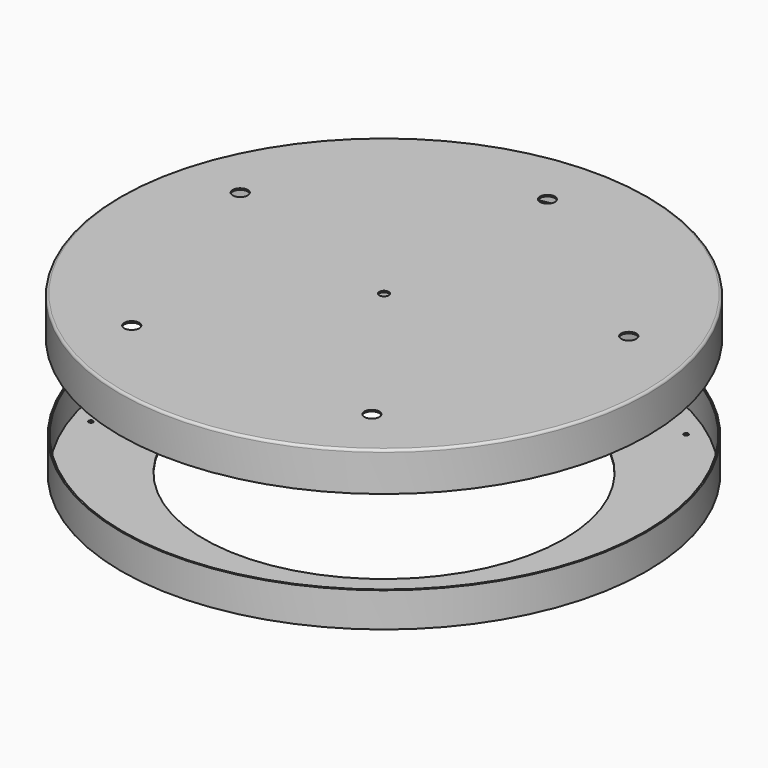
from build123d import *

# Parameters (mm, degrees)
F0_R      = 279.4
F1_DEPTH  = 1.5875
F2_R      = 279.4
F2_R_2    = 277.8125
F3_DEPTH  = 39.6875
F4_R      = 7.9375
F4_R_2    = 5.08
F5_DEPTH  = 1.5875
F6_R      = 2.54
F9_R      = 190.5
F9_R_2    = 2.38125
F10_DEPTH = 3.175
F12_R     = 2.38125
F13_DEPTH = 279.401
F14_R     = 2.38125
F15_DEPTH = 279.401


with BuildPart() as f1:
    # F0 (on Top) → F1 (new body)
    with BuildSketch(Plane.XY):
        Circle(F0_R)
    extrude(amount=F1_DEPTH)

    # F2 (on face) → F3 (join)
    with BuildSketch(Plane(origin=(0, 0, 0), x_dir=(1, 0, 0), z_dir=(0, 0, -1))):
        Circle(F2_R)
        Circle(F2_R_2, mode=Mode.SUBTRACT)
    extrude(amount=F3_DEPTH)

    # F4 (on face) → F5 (cut, through all)
    with BuildSketch(Plane.XY.offset(1.5875)):
        with Locations((0, 216.065305)):
            Circle(F4_R)
        with Locations((-205.490317, 66.767851)):
            Circle(F4_R)
        with Locations((-127, -174.800504)):
            Circle(F4_R)
        with Locations((127, -174.800504)):
            Circle(F4_R)
        with Locations((205.490317, 66.767851)):
            Circle(F4_R)
        Circle(F4_R_2)
    extrude(amount=-F5_DEPTH, mode=Mode.SUBTRACT)

    # F6
    f6_edges = [f1.edges().sort_by_distance(p)[0] for p in [
        (-279.4, 0, 1.5875),
    ]]
    fillet(f6_edges, radius=F6_R)


with BuildPart() as f8:
    # F7 (on Front) → F8 (revolve)
    with BuildSketch(Plane.XZ):
        Polygon((0, -39.6875), (277.8125, -39.6875), (277.8125, -3.175), (276.225, -3.175), (276.225, -38.1), (0, -38.1), align=None)
    revolve(axis=Axis((0, 0, -69.479708), (0, 0, -1)))

    # F9 (on face) → F10 (cut)
    with BuildSketch(Plane(origin=(0, 0, -39.6875), x_dir=(1, 0, 0), z_dir=(0, 0, -1))):
        Circle(F9_R)
        with Locations((0, 258.7625)):
            Circle(F9_R_2)
        with Locations((-246.097762, 79.96201)):
            Circle(F9_R_2)
        with Locations((-152.096781, -209.34326)):
            Circle(F9_R_2)
        with Locations((152.096781, -209.34326)):
            Circle(F9_R_2)
        with Locations((246.097762, 79.96201)):
            Circle(F9_R_2)
    extrude(amount=-F10_DEPTH, mode=Mode.SUBTRACT)


with BuildPart() as f13_tool:
    # F12 (on Front) → F13 (new body, through all)
    with BuildSketch(Plane.XZ):
        with Locations((0, -19.05)):
            Circle(F12_R)
    extrude(amount=-F13_DEPTH)


with BuildPart() as f1_1:
    add(f1.part)

    # F13: cut by f13_tool
    add(f13_tool.part, mode=Mode.SUBTRACT)


with BuildPart() as f8_1:
    add(f8.part)

    # F13: cut by f13_tool
    add(f13_tool.part, mode=Mode.SUBTRACT)


with BuildPart() as f15_tool:
    # F14 (on Right) → F15 (new body, through all)
    with BuildSketch(Plane.YZ):
        with Locations((0, -16.668759)):
            Circle(F14_R)
    extrude(amount=-F15_DEPTH)


with BuildPart() as f1_2:
    add(f1_1.part)

    # F15: cut by f15_tool
    add(f15_tool.part, mode=Mode.SUBTRACT)


with BuildPart() as f8_2:
    add(f8_1.part)

    # F15: cut by f15_tool
    add(f15_tool.part, mode=Mode.SUBTRACT)


with BuildPart() as f8_3:
    # F16: moved
    add(f8_2.part.moved(Location((0, 0, -127))))


solid = Compound([f1_2.part, f8_3.part])
